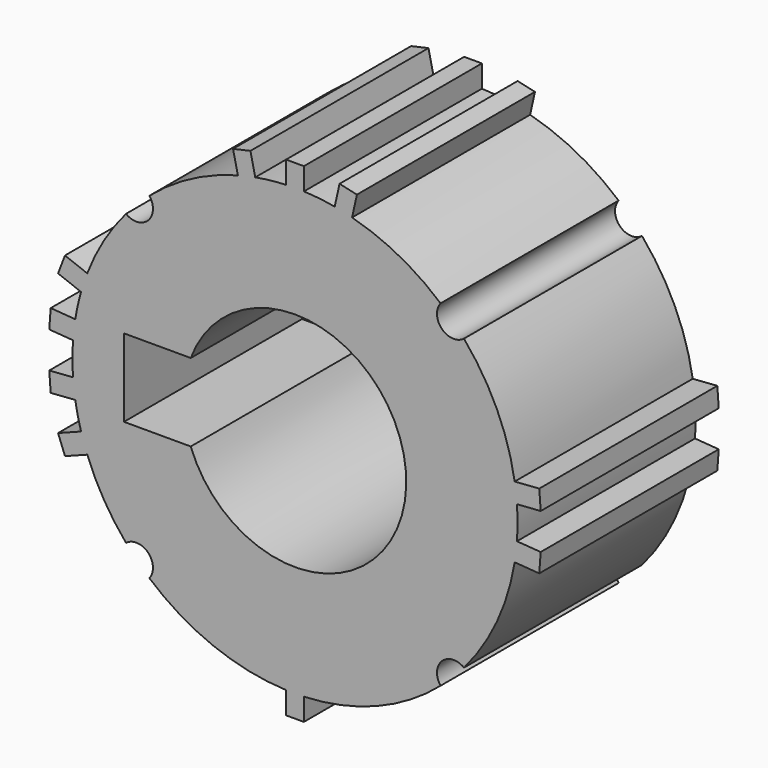
from build123d import *

# Parameters (mm, degrees)
F1_DEPTH = 25.4


with BuildPart() as f1:
    # F0 (on Front) → F1 (new body)
    with BuildSketch(Plane.XZ):
        with BuildLine():
            ThreePointArc((19.284791, 16.530482), (16.762226, 16.687837), (16.616092, 19.211078))
            ThreePointArc((16.616092, 19.211078), (11.870376, 22.455605), (6.516592, 24.549828))
            Line((6.516592, 24.549828), (7.06953, 27.028912))
            Line((7.06953, 27.028912), (5.086263, 27.471263))
            Line((5.086263, 27.471263), (4.533324, 24.992178))
            ThreePointArc((4.533324, 24.992178), (2.781418, 25.247252), (1.016, 25.379672))
            Line((1.016, 25.379672), (1.016, 27.919672))
            Line((1.016, 27.919672), (-1.016, 27.919672))
            Line((-1.016, 27.919672), (-1.016, 25.379672))
            ThreePointArc((-1.016, 25.379672), (-2.781418, 25.247252), (-4.533324, 24.992178))
            Line((-4.533324, 24.992178), (-5.086263, 27.471263))
            Line((-5.086263, 27.471263), (-7.06953, 27.028912))
            Line((-7.06953, 27.028912), (-6.516592, 24.549828))
            ThreePointArc((-6.516592, 24.549828), (-11.870376, 22.455605), (-16.616092, 19.211078))
            ThreePointArc((-16.616092, 19.211078), (-16.762226, 16.687837), (-19.284791, 16.530482))
            ThreePointArc((-19.284791, 16.530482), (-21.815816, 13.00885), (-23.710856, 9.107979))
            Line((-23.710856, 9.107979), (-26.248305, 10.082682))
            Line((-26.248305, 10.082682), (-27.040335, 8.020787))
            Line((-27.040335, 8.020787), (-24.413065, 7.011581))
            ThreePointArc((-24.413065, 7.011581), (-24.787675, 5.543569), (-25.074094, 4.055834))
            Line((-25.074094, 4.055834), (-27.880973, 4.261933))
            Line((-27.880973, 4.261933), (-28.042721, 2.059081))
            Line((-28.042721, 2.059081), (-25.331804, 1.860028))
            ThreePointArc((-25.331804, 1.860028), (-25.4, 0), (-25.331804, -1.860028))
            Line((-25.331804, -1.860028), (-28.042721, -2.059081))
            Line((-28.042721, -2.059081), (-27.880973, -4.261933))
            Line((-27.880973, -4.261933), (-25.074094, -4.055834))
            ThreePointArc((-25.074094, -4.055834), (-24.787675, -5.543569), (-24.413065, -7.011581))
            Line((-24.413065, -7.011581), (-27.040335, -8.020787))
            Line((-27.040335, -8.020787), (-26.248305, -10.082682))
            Line((-26.248305, -10.082682), (-23.710856, -9.107979))
            ThreePointArc((-23.710856, -9.107979), (-21.815816, -13.00885), (-19.284791, -16.530482))
            ThreePointArc((-19.284791, -16.530482), (-16.762226, -16.687837), (-16.616092, -19.211078))
            ThreePointArc((-16.616092, -19.211078), (-9.339997, -23.620424), (-1.016, -25.379672))
            Line((-1.016, -25.379672), (-1.016, -27.919672))
            Line((-1.016, -27.919672), (1.016, -27.919672))
            Line((1.016, -27.919672), (1.016, -25.379672))
            ThreePointArc((1.016, -25.379672), (9.339997, -23.620424), (16.616092, -19.211078))
            ThreePointArc((16.616092, -19.211078), (16.762226, -16.687837), (19.284791, -16.530482))
            ThreePointArc((19.284791, -16.530482), (23.039789, -10.692432), (25.074094, -4.055834))
            Line((25.074094, -4.055834), (27.880973, -4.261933))
            Line((27.880973, -4.261933), (28.042721, -2.059081))
            Line((28.042721, -2.059081), (25.331804, -1.860028))
            ThreePointArc((25.331804, -1.860028), (25.4, 0), (25.331804, 1.860028))
            Line((25.331804, 1.860028), (28.042721, 2.059081))
            Line((28.042721, 2.059081), (27.880973, 4.261933))
            Line((27.880973, 4.261933), (25.074094, 4.055834))
            ThreePointArc((25.074094, 4.055834), (23.039789, 10.692432), (19.284791, 16.530482))
        make_face()
        with BuildLine():
            ThreePointArc((-11.896721, 4.445), (-8.980256, 8.980256), (-4.445, 11.896721))
            ThreePointArc((-4.445, 11.896721), (0, 12.7), (4.445, 11.896721))
            ThreePointArc((4.445, 11.896721), (8.980256, -8.980256), (-11.896721, -4.445))
            Line((-11.896721, -4.445), (-19.516721, -4.445))
            Line((-19.516721, -4.445), (-19.516721, 4.445))
            Line((-19.516721, 4.445), (-11.896721, 4.445))
        make_face(mode=Mode.SUBTRACT)
    extrude(amount=F1_DEPTH)


solid = f1.part
